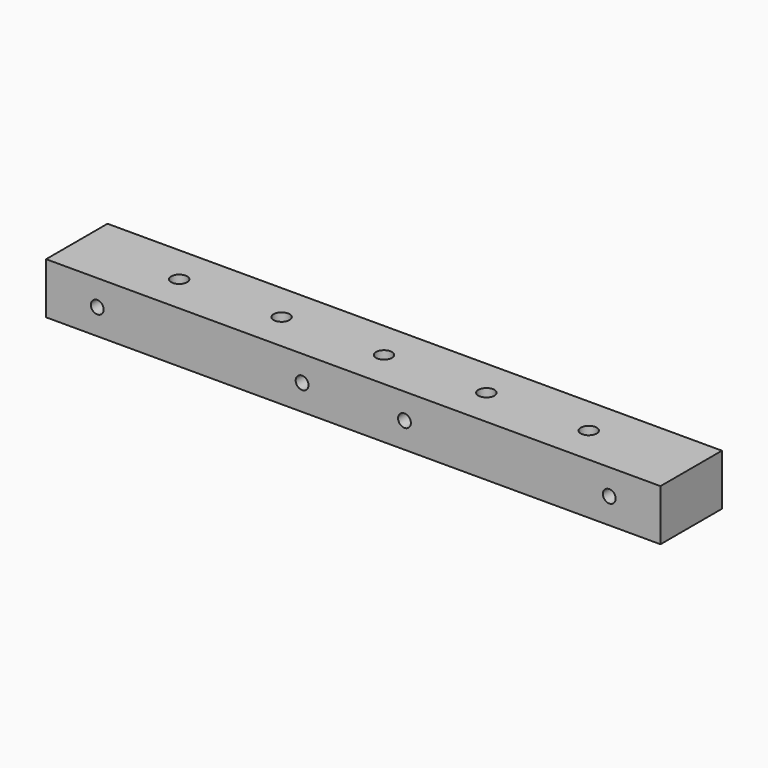
from build123d import *

# Parameters (mm, degrees)
F0_W           = 304.8
F0_H           = 38.1
F1_DEPTH       = 25.4
F2_D           = 7.9375
F2_CSINK_D     = 15.9004
F2_CSINK_ANGLE = 90
F4_D           = 6.35
F4_DEPTH       = 12.954
F4_TIP         = 1.9077324654


with BuildPart() as f1:
    # F0 (on Top) → F1 (new body)
    with BuildSketch(Plane.XY):
        with Locations((152.4, 19.05)):
            Rectangle(F0_W, F0_H)
    extrude(amount=F1_DEPTH)

    # F2 (through all)
    with Locations(Plane(origin=(0, 0, 0), x_dir=(1, 0, 0), z_dir=(0, 0, -1))):
        with Locations((50.8, -19.05), (101.6, -19.05), (152.4, -19.05), (203.2, -19.05), (254, -19.05)):
            CounterSinkHole(F2_D / 2, F2_CSINK_D / 2, counter_sink_angle=F2_CSINK_ANGLE)

    # F4
    with Locations(Plane.XZ):
        with Locations((25.4, 12.7), (127, 12.7), (177.8, 12.7), (279.4, 12.7)):
            Hole(F4_D / 2, depth=F4_DEPTH)
            with Locations((0, 0, -(F4_DEPTH + F4_TIP / 2))):  # 118° drill point
                Cone(0, F4_D / 2, F4_TIP, mode=Mode.SUBTRACT)


solid = f1.part
